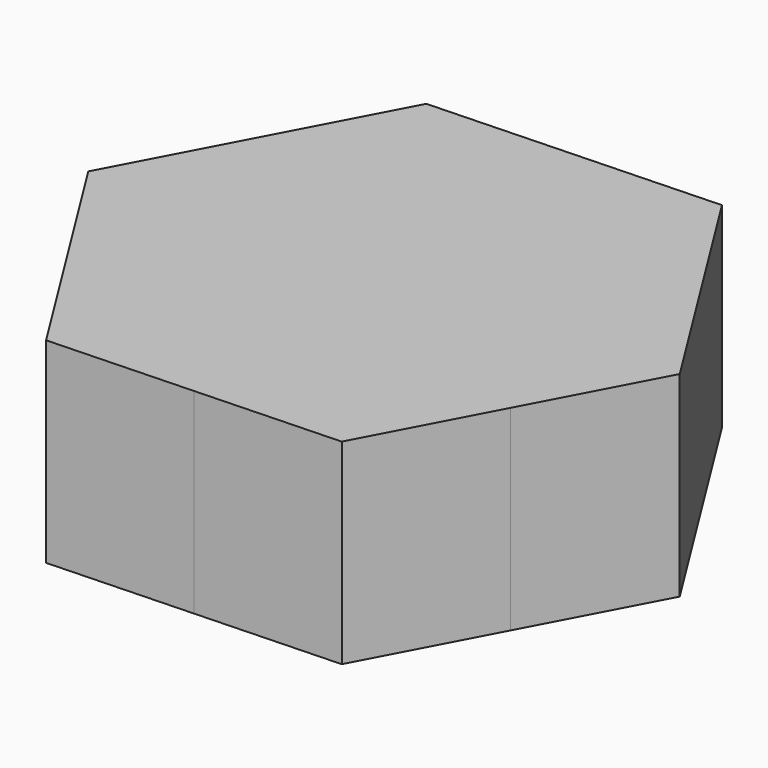
from build123d import *

# Parameters (mm, degrees)
F0_R     = 43.165050556
F1_DEPTH = 50.8
F2_DEPTH = 12.7
F3_W     = 74.5423375242
F3_H     = 25.2622670705
F5_DEPTH = 97.5896194577
F6_DEPTH = 19.05
F7_DEPTH = 19.05
F8_DEPTH = 2.54
F9_DEPTH = 6.35


with BuildPart() as f1:
    # F0 (on Top) → F1 (new body)
    with BuildSketch(Plane.XY):
        with BuildLine():
            Line((57.0385901099, -30.2327521232), (74.4934776686, 2.6984937288))
            Line((74.4934776686, 2.6984937288), (54.7016252051, 34.2804939083))
            ThreePointArc((54.7016252051, 34.2804939083), (62.0431865669, 17.8343226196), (64.5555579534, 0))
            ThreePointArc((64.5555579534, 0), (62.6481367325, -15.5766179457), (57.0385901099, -30.2327521232))
        make_face()
        with BuildLine():
            Line((39.5837029554, -63.1639972128), (57.0385901099, -30.2327521232))
            ThreePointArc((57.0385901099, -30.2327521232), (34.280492356, -54.7016261779), (2.3369646013, -64.5132440599))
            Line((2.3369646013, -64.5132440599), (39.5837029554, -63.1639972128))
        make_face()
        with BuildLine():
            Line((-34.9097747132, -65.8624909417), (2.3369646013, -64.5132440599))
            ThreePointArc((2.3369646013, -64.5132440599), (-30.2327516987, -57.038590335), (-54.7016263939, -34.2804920112))
            Line((-54.7016263939, -34.2804920112), (-34.9097747132, -65.8624909417))
        make_face()
        with BuildLine():
            Line((-74.4934776686, -2.6984937288), (-54.7016263939, -34.2804920112))
            ThreePointArc((-54.7016263939, -34.2804920112), (-64.5132440984, -2.3369635366), (-57.0385899433, 30.2327524377))
            Line((-57.0385899433, 30.2327524377), (-74.4934776686, -2.6984937288))
        make_face()
        with BuildLine():
            ThreePointArc((2.3369646013, -64.5132440599), (34.280492356, -54.7016261779), (57.0385901099, -30.2327521232))
            ThreePointArc((57.0385901099, -30.2327521232), (62.6481367325, -15.5766179457), (64.5555579534, 0))
            ThreePointArc((64.5555579534, 0), (62.0431865669, 17.8343226196), (54.7016252051, 34.2804939083))
            ThreePointArc((54.7016252051, 34.2804939083), (30.232750983, 57.0385907143), (-2.3369639827, 64.5132440823))
            ThreePointArc((-2.3369639827, 64.5132440823), (-34.280491943, 54.7016264367), (-57.0385899433, 30.2327524377))
            ThreePointArc((-57.0385899433, 30.2327524377), (-64.5132440984, -2.3369635366), (-54.7016263939, -34.2804920112))
            ThreePointArc((-54.7016263939, -34.2804920112), (-30.2327516987, -57.038590335), (2.3369646013, -64.5132440599))
        make_face()
        Circle(F0_R, mode=Mode.SUBTRACT)
        with BuildLine():
            ThreePointArc((-57.0385899433, 30.2327524377), (-34.280491943, 54.7016264367), (-2.3369639827, 64.5132440823))
            Line((-2.3369639827, 64.5132440823), (-39.5837029554, 63.1639972128))
            Line((-39.5837029554, 63.1639972128), (-57.0385899433, 30.2327524377))
        make_face()
        with BuildLine():
            ThreePointArc((-2.3369639827, 64.5132440823), (30.232750983, 57.0385907143), (54.7016252051, 34.2804939083))
            Line((54.7016252051, 34.2804939083), (34.9097747132, 65.8624909417))
            Line((34.9097747132, 65.8624909417), (-2.3369639827, 64.5132440823))
        make_face()
        Circle(F0_R)
    extrude(amount=F1_DEPTH)

    # F0 (on Top) → F2 (cut)
    with BuildSketch(Plane.XY):
        Circle(F0_R)
    extrude(amount=F2_DEPTH, mode=Mode.SUBTRACT)

    # F3 (on face) → F5 (cut)
    with BuildSketch(Plane(origin=(-57.038590312, 30.232751742, 0), x_dir=(-0.4683214382, -0.8835581648, 0), z_dir=(-0.8835581648, 0.4683214382, 0))):
        with Locations((0, 12.7688664648)):
            Rectangle(F3_W, F3_H)
    extrude(amount=-F5_DEPTH, mode=Mode.SUBTRACT)

    # F4 (on face) → F6 (cut)
    with BuildSketch(Plane.XY):
        Polygon((14.7088014101, -43.41361173), (-10.8375270656, -44.4895269373), (-10.6687015415, -48.4980884536), (2.0200499343, -47.9636859978), (14.7088014101, -47.429283542), align=None)
        Polygon((30.3334603819, 34.3023495006), (43.9478240628, 12.8591897156), (47.7949766962, 15.3017651388), (40.9877948558, 26.0233450313), (34.1806130153, 36.7449249238), align=None)
        Polygon((44.8734362679, -9.1183725252), (33.1102969972, -31.6303372217), (37.1492056811, -33.7407814228), (43.0307753164, -22.4847990746), (48.9123449518, -11.2288167263), align=None)
    extrude(amount=F6_DEPTH, mode=Mode.SUBTRACT)

    # F4 (on face) → F7 (cut)
    with BuildSketch(Plane.XY):
        Polygon((-33.8961248298, -36.5643020277), (-30.3334603819, -34.3023495006), (-43.9478240628, -12.8591897156), (-47.5104885107, -15.1211422428), (-40.7033066702, -25.8427221352), align=None)
        Polygon((-48.6136768425, 11.0727541786), (-44.8734362679, 9.1183725252), (-33.1102969972, 31.6303372217), (-36.8505375718, 33.5847188751), (-42.7321072072, 22.3287365268), align=None)
        Polygon((-14.7088014101, 47.429283542), (-14.539975886, 43.4207220257), (11.0063525898, 44.4966372329), (10.6687015415, 48.4980884536), (-2.0200499343, 47.9636859978), align=None)
    extrude(amount=F7_DEPTH, mode=Mode.SUBTRACT)

    # F0 (on Top) + F4 (on face) → F8 (join)
    with BuildSketch(Plane.XY):
        with BuildLine():
            ThreePointArc((-57.0385899433, 30.2327524377), (-34.280491943, 54.7016264367), (-2.3369639827, 64.5132440823))
            Line((-2.3369639827, 64.5132440823), (-39.5837029554, 63.1639972128))
            Line((-39.5837029554, 63.1639972128), (-57.0385899433, 30.2327524377))
        make_face()
        with BuildLine():
            Line((-74.4934776686, -2.6984937288), (-54.7016263939, -34.2804920112))
            ThreePointArc((-54.7016263939, -34.2804920112), (-64.5132440984, -2.3369635366), (-57.0385899433, 30.2327524377))
            Line((-57.0385899433, 30.2327524377), (-74.4934776686, -2.6984937288))
        make_face()
    with BuildSketch(Plane.XY):
        with BuildLine():
            ThreePointArc((-54.7016263939, -34.2804920112), (-30.2327516987, -57.038590335), (2.3369646013, -64.5132440599))
            ThreePointArc((2.3369646013, -64.5132440599), (34.280492356, -54.7016261779), (57.0385901099, -30.2327521232))
            ThreePointArc((57.0385901099, -30.2327521232), (62.6481367325, -15.5766179457), (64.5555579534, 0))
            ThreePointArc((64.5555579534, 0), (62.0431865669, 17.8343226196), (54.7016252051, 34.2804939083))
            ThreePointArc((54.7016252051, 34.2804939083), (30.232750983, 57.0385907143), (-2.3369639827, 64.5132440823))
            ThreePointArc((-2.3369639827, 64.5132440823), (-34.280491943, 54.7016264367), (-57.0385899433, 30.2327524377))
            ThreePointArc((-57.0385899433, 30.2327524377), (-64.5132440984, -2.3369635366), (-54.7016263939, -34.2804920112))
        make_face()
        Polygon((-30.0572673127, -40.9522618745), (-27.3202242883, -39.0483151983), (-30.3334603819, -34.3023495006), (-33.8961248298, -36.5643020277), (-40.7033066702, -25.8427221352), (-47.5104885107, -15.1211422428), (-43.9478240628, -12.8591897156), (-46.7150717143, -8.5006655168), (-49.4185883118, -10.2171410057), (-54.2964744699, -2.5342779097), (-50.4943327821, 5.5542261239), (-47.4769450808, 4.1358506716), (-44.8734362679, 9.1183725252), (-48.6136768425, 11.0727541786), (-42.7321072072, 22.3287365268), (-36.8505375718, 33.5847188751), (-33.1102969972, 31.6303372217), (-30.7193281438, 36.2061060858), (-33.5575978209, 37.6891823943), (-29.342986285, 45.754987272), (-20.4370654694, 46.5064879984), (-20.1567207926, 43.1841658699), (-14.539975886, 43.4207220257), (-14.7088014101, 47.429283542), (-2.0200499343, 47.9636859978), (10.6687015415, 48.4980884536), (11.0063525898, 44.4966372329), (16.4542719722, 44.7260830931), (16.4542719722, 48.0602122843), (25.3918431699, 48.0602122843), (30.269729328, 40.3773491883), (27.5662127305, 38.6608736994), (30.3334603819, 34.3023495006), (34.1806130153, 36.7449249238), (40.9877948558, 26.0233450313), (47.7949766962, 15.3017651388), (43.9478240628, 12.8591897156), (46.9610601565, 8.1132240179), (49.8485007356, 9.7802886135), (54.3172863345, 2.0401249081), (50.1026747985, -6.0256799696), (47.2644051214, -4.542603661), (44.8734362679, -9.1183725252), (48.9123449518, -11.2288167263), (43.0307753164, -22.4847990746), (37.1492056811, -33.7407814228), (33.1102969972, -31.6303372217), (30.5067881843, -36.6128590752), (33.3942287634, -38.2799236708), (28.9254431645, -46.0200873762), (19.8329454705, -46.4030291579), (19.6981923909, -43.2034773604), (14.7088014101, -43.41361173), (14.7088014101, -47.429283542), (2.0200499343, -47.9636859978), (-10.6687015415, -48.4980884536), (-10.8375270656, -44.4895269373), (-15.9957435705, -44.7067716026), (-15.8609904909, -47.9063234), (-24.9534881849, -48.2892651817), align=None, mode=Mode.SUBTRACT)
    extrude(amount=F8_DEPTH)

    # F4 (on face) → F9 (join)
    with BuildSketch(Plane.XY):
        Polygon((27.2287273618, -42.8863195699), (19.6981923909, -43.2034773604), (19.8329454705, -46.4030291579), (28.9254431645, -46.0200873762), (33.3942287634, -38.2799236708), (30.5067881843, -36.6128590752), align=None)
        Polygon((-15.9957435705, -44.7067716026), (-23.5262785415, -45.023929393), (-27.3202242883, -39.0483151983), (-30.0572673127, -40.9522618745), (-24.9534881849, -48.2892651817), (-15.8609904909, -47.9063234), align=None)
        Polygon((-49.4185883118, -10.2171410057), (-46.7150717143, -8.5006655168), (-50.7550059033, -2.1376098231), (-47.4769450808, 4.1358506716), (-50.4943327821, 5.5542261239), (-54.2964744699, -2.5342779097), align=None)
        Polygon((-33.5575978209, 37.6891823943), (-30.7193281438, 36.2061060858), (-27.2287273618, 42.8863195699), (-20.1567207926, 43.1841658699), (-20.4370654694, 46.5064879984), (-29.342986285, 45.754987272), align=None)
        Polygon((16.4542719722, 48.0602122843), (16.4542719722, 44.7260830931), (23.5262785415, 45.023929393), (27.5662127305, 38.6608736994), (30.269729328, 40.3773491883), (25.3918431699, 48.0602122843), align=None)
        Polygon((50.7550059033, 2.1376098231), (47.2644051214, -4.542603661), (50.1026747985, -6.0256799696), (54.3172863345, 2.0401249081), (49.8485007356, 9.7802886135), (46.9610601565, 8.1132240179), align=None)
    extrude(amount=-F9_DEPTH)


solid = f1.part
